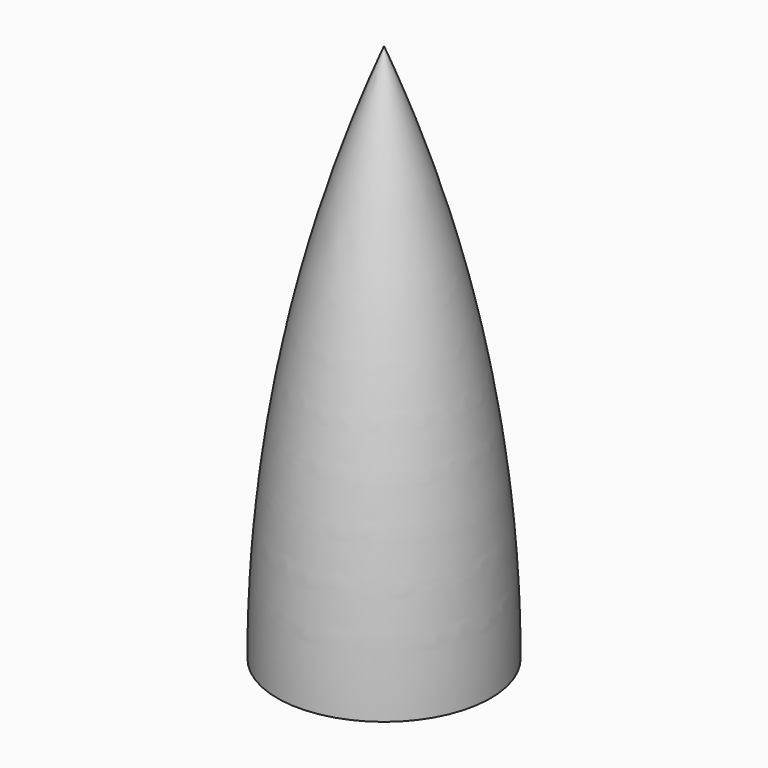
from build123d import *

# Parameters (mm, degrees)
F3_ANGLE = 90


with BuildPart() as f1:
    # F0 (on Top) → F1 (revolve)
    with BuildSketch(Plane.XY):
        with BuildLine():
            Line((0, 8.9), (0, 7.9))
            Line((0, 7.9), (2.4, 7.9))
            Line((2.4, 7.9), (2.4, 6.8))
            Line((2.4, 6.8), (5.4, 6.8))
            Line((5.4, 6.8), (5.4, 7.9))
            ThreePointArc((5.4, 7.9), (24.960286057, 5.2217774429), (44, 0))
            Line((44, 0), (45, 0))
            ThreePointArc((45, 0), (22.9358344082, 6.6536571201), (0, 8.9))
        make_face()
    revolve(axis=Axis((12.5827532146, 0, 0), (1, 0, 0)))


with BuildPart() as f1_1:
    # F3: moved
    add(f1.part.rotate(Axis((0, 0, 0), (0, -1, 0)), F3_ANGLE))


solid = f1_1.part
